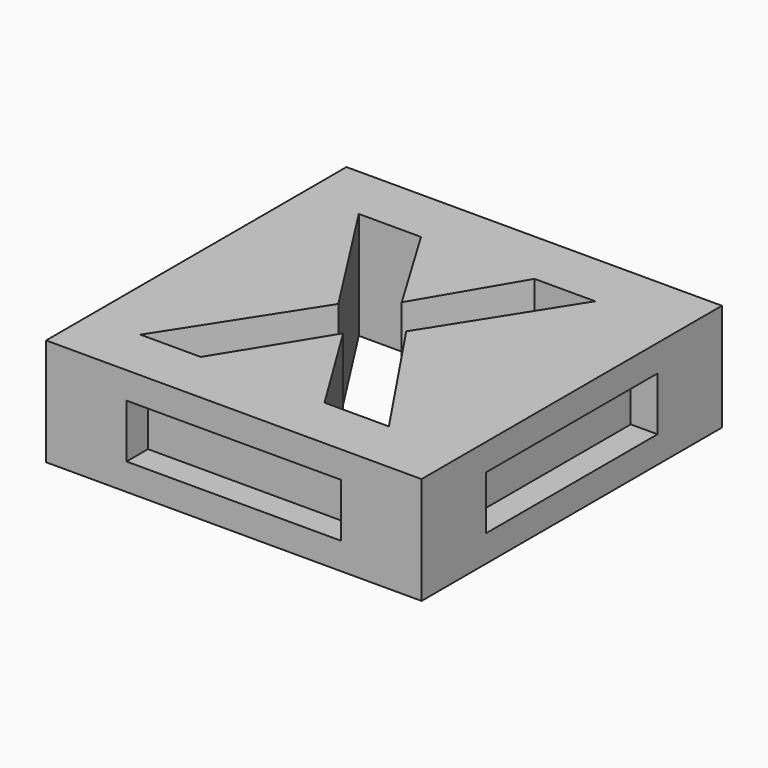
from build123d import *

# Parameters (mm, degrees)
F0_W     = 35.56
F0_H     = 35.56
F1_DEPTH = 5.08
F2_W     = 19.812
F2_H     = 4.572
F3_DEPTH = 2.54
F4_W     = 19.812
F4_H     = 4.572
F5_DEPTH = 2.54
F6_W     = 20.32
F6_H     = 5.08
F7_DEPTH = 2.54
F8_W     = 20.32
F8_H     = 5.08
F9_DEPTH = 2.54


with BuildPart() as f1:
    # F0 (on Top) → F1 (new body, symmetric)
    with BuildSketch(Plane.XY):
        Rectangle(F0_W, F0_H)
        Polygon((2.1111545139, -0.0055121528), (10.6219184028, -12.7), (4.5254774306, -12.7), (-1.3339409722, -3.175), (-7.1878472222, -12.7), (-12.9094618056, -12.7), (-4.5530381944, 0.2866319444), (-12.3747829861, 12.4850260417), (-6.4822916667, 12.4850260417), (-1.0583333333, 3.423046875), (4.26640625, 12.4850260417), (10.0155815972, 12.4850260417), align=None, mode=Mode.SUBTRACT)
    extrude(amount=F1_DEPTH, both=True)

    # F2 (on face) → F3 (join)
    with BuildSketch(Plane(origin=(0, 17.78, 0), x_dir=(-1, 0, 0), z_dir=(0, 1, 0))):
        Rectangle(F2_W, F2_H)
    extrude(amount=F3_DEPTH)

    # F4 (on face) → F5 (join)
    with BuildSketch(Plane(origin=(-17.78, 0, 0), x_dir=(0, -1, 0), z_dir=(-1, 0, 0))):
        Rectangle(F4_W, F4_H)
    extrude(amount=F5_DEPTH)

    # F6 (on face) → F7 (cut)
    with BuildSketch(Plane.XZ.offset(17.78)):
        Rectangle(F6_W, F6_H)
    extrude(amount=-F7_DEPTH, mode=Mode.SUBTRACT)

    # F8 (on face) → F9 (cut)
    with BuildSketch(Plane.YZ.offset(17.78)):
        Rectangle(F8_W, F8_H)
    extrude(amount=-F9_DEPTH, mode=Mode.SUBTRACT)


solid = f1.part
